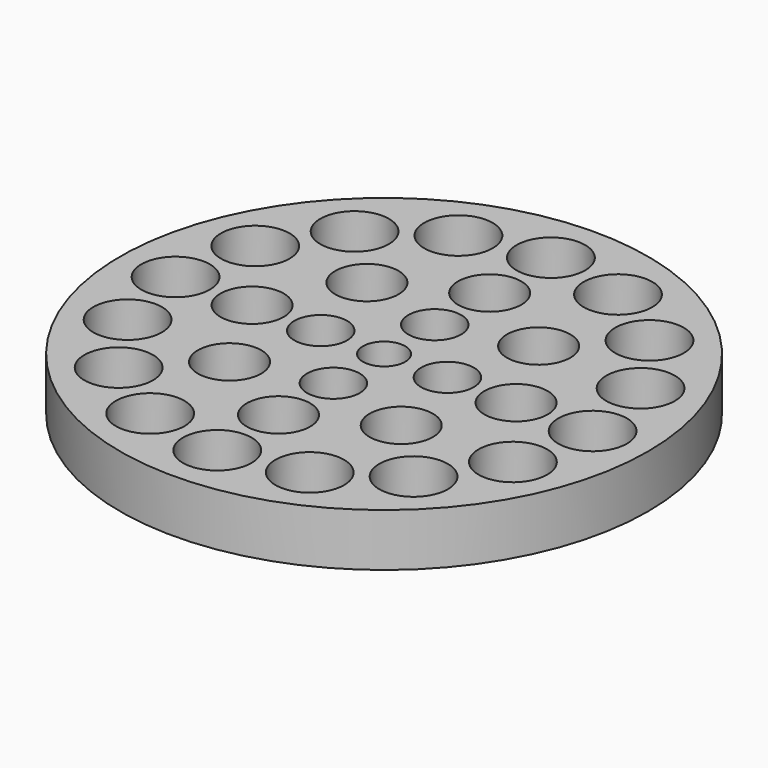
from build123d import *

# Parameters (mm, degrees)
F0_R     = 25
F0_R_2   = 3.25
F0_R_3   = 3
F0_R_4   = 2.5
F0_R_5   = 2
F1_DEPTH = 5


with BuildPart() as f1:
    # F0 (on Top) → F1 (new body)
    with BuildSketch(Plane.XY):
        Circle(F0_R)
        with Locations((-13.965359, -13.965359)):
            Circle(F0_R_2, mode=Mode.SUBTRACT)
        with Locations((-7.557998, -18.246621)):
            Circle(F0_R_2, mode=Mode.SUBTRACT)
        with Locations((-18.246621, -7.557998)):
            Circle(F0_R_2, mode=Mode.SUBTRACT)
        with Locations((-8.131728, -8.131728)):
            Circle(F0_R_3, mode=Mode.SUBTRACT)
        with Locations((0, -19.75)):
            Circle(F0_R_2, mode=Mode.SUBTRACT)
        with Locations((7.557998, -18.246621)):
            Circle(F0_R_2, mode=Mode.SUBTRACT)
        with Locations((13.965359, -13.965359)):
            Circle(F0_R_2, mode=Mode.SUBTRACT)
        with Locations((0, -12.5)):
            Circle(F0_R_3, mode=Mode.SUBTRACT)
        with Locations((8.131728, -8.131728)):
            Circle(F0_R_3, mode=Mode.SUBTRACT)
        with Locations((0, -6)):
            Circle(F0_R_4, mode=Mode.SUBTRACT)
        with Locations((18.246621, -7.557998)):
            Circle(F0_R_2, mode=Mode.SUBTRACT)
        with Locations((-19.75, 0)):
            Circle(F0_R_2, mode=Mode.SUBTRACT)
        with Locations((-18.246621, 7.557998)):
            Circle(F0_R_2, mode=Mode.SUBTRACT)
        with Locations((-12.5, 0)):
            Circle(F0_R_3, mode=Mode.SUBTRACT)
        with Locations((-6, 0)):
            Circle(F0_R_4, mode=Mode.SUBTRACT)
        with Locations((-8.131728, 8.131728)):
            Circle(F0_R_3, mode=Mode.SUBTRACT)
        with Locations((-13.965359, 13.965359)):
            Circle(F0_R_2, mode=Mode.SUBTRACT)
        with Locations((-7.557998, 18.246621)):
            Circle(F0_R_2, mode=Mode.SUBTRACT)
        Circle(F0_R_5, mode=Mode.SUBTRACT)
        with Locations((6, 0)):
            Circle(F0_R_4, mode=Mode.SUBTRACT)
        with Locations((0, 6)):
            Circle(F0_R_4, mode=Mode.SUBTRACT)
        with Locations((8.131728, 8.131728)):
            Circle(F0_R_3, mode=Mode.SUBTRACT)
        with Locations((12.5, 0)):
            Circle(F0_R_3, mode=Mode.SUBTRACT)
        with Locations((19.75, 0)):
            Circle(F0_R_2, mode=Mode.SUBTRACT)
        with Locations((18.246621, 7.557998)):
            Circle(F0_R_2, mode=Mode.SUBTRACT)
        with Locations((0, 12.5)):
            Circle(F0_R_3, mode=Mode.SUBTRACT)
        with Locations((7.557998, 18.246621)):
            Circle(F0_R_2, mode=Mode.SUBTRACT)
        with Locations((0, 19.75)):
            Circle(F0_R_2, mode=Mode.SUBTRACT)
        with Locations((13.965359, 13.965359)):
            Circle(F0_R_2, mode=Mode.SUBTRACT)
    extrude(amount=F1_DEPTH)


solid = f1.part
